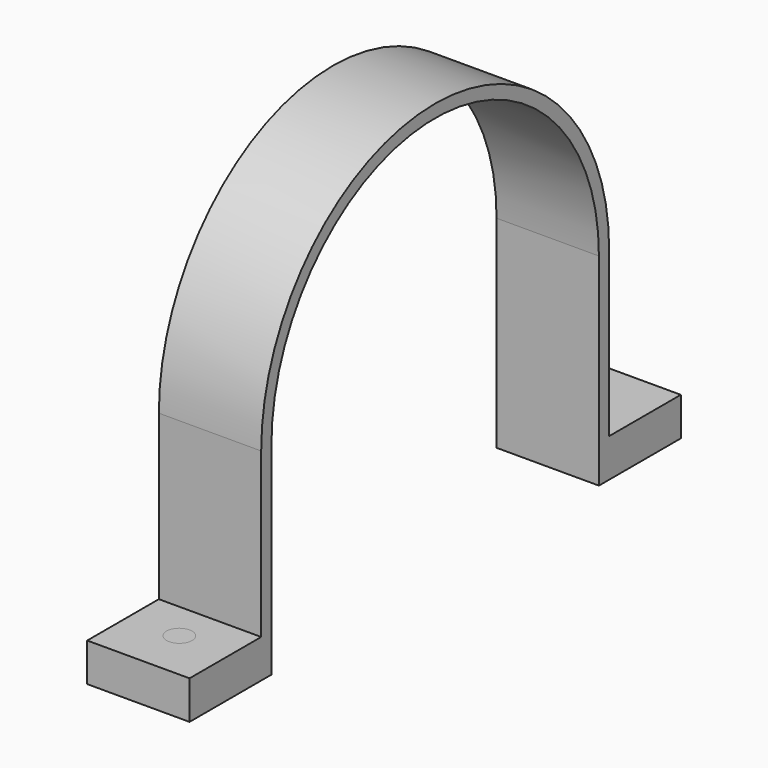
from build123d import *

# Parameters (mm, degrees)
F0_W     = 22.225
F0_H     = 9.525
F0_W_2   = 3.175
F1_DEPTH = 12.7
F2_R     = 3.175
F3_DEPTH = 9.525
F4_R     = 3.175
F5_DEPTH = 9.525


with BuildPart() as f1:
    # F0 (on Right) → F1 (new body, symmetric)
    with BuildSketch(Plane.YZ):
        with Locations((-88.1709930871, 0)):
            Rectangle(F0_W, F0_H)
        with Locations((-75.4709930871, 0)):
            Rectangle(F0_W_2, F0_H)
        with BuildLine():
            Line((-77.0584930871, 4.7625), (-73.8834930871, 4.7625))
            Line((-73.8834930871, 4.7625), (-73.8834930871, 45.4025))
            ThreePointArc((-73.8834930871, 45.4025), (-23.0834930871, 96.2025), (27.7165069129, 45.4025))
            Line((27.7165069129, 45.4025), (27.7165069129, 4.7625))
            Line((27.7165069129, 4.7625), (30.8915069129, 4.7625))
            Line((30.8915069129, 4.7625), (30.8915069129, 45.4025))
            ThreePointArc((30.8915069129, 45.4025), (-23.0834930871, 99.3775), (-77.0584930871, 45.4025))
            Line((-77.0584930871, 45.4025), (-77.0584930871, 4.7625))
        make_face()
        with Locations((42.0040069129, 0)):
            Rectangle(F0_W, F0_H)
        with Locations((29.3040069129, 0)):
            Rectangle(F0_W_2, F0_H)
    extrude(amount=F1_DEPTH, both=True)


with BuildPart() as f3:
    # F2 (on face) → F3 (new body)
    with BuildSketch(Plane(origin=(0, 0, -4.7625), x_dir=(1, 0, 0), z_dir=(0, 0, -1))):
        with Locations((0, -40.4165069129)):
            Circle(F2_R)
    extrude(amount=-F3_DEPTH)


with BuildPart() as f5:
    # F4 (on face) → F5 (new body)
    with BuildSketch(Plane(origin=(0, 0, -4.7625), x_dir=(1, 0, 0), z_dir=(0, 0, -1))):
        with Locations((0, 86.5834930871)):
            Circle(F4_R)
    extrude(amount=-F5_DEPTH)


solid = Compound([f1.part, f3.part, f5.part])
